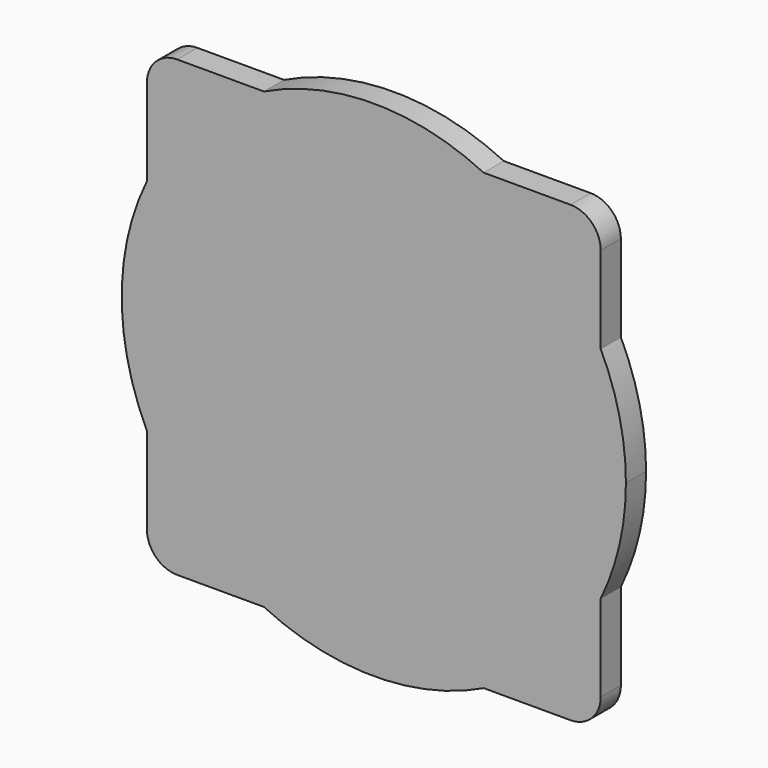
from build123d import *

# Parameters (mm, degrees)
F1_DEPTH = 10


with BuildPart() as f1:
    # F0 (on Front) → F1 (new body)
    with BuildSketch(Plane.XZ):
        with BuildLine():
            ThreePointArc((-90, 43.5889894354), (-70.7106781187, 70.7106781187), (-43.5889894354, 90))
            Line((-43.5889894354, 90), (-78, 90))
            ThreePointArc((-78, 90), (-86.4852813742, 86.4852813742), (-90, 78))
            Line((-90, 78), (-90, 43.5889894354))
        make_face()
        with BuildLine():
            Line((-43.5889894354, 90), (43.5889894354, 90))
            ThreePointArc((43.5889894354, 90), (0, 100), (-43.5889894354, 90))
        make_face()
        with BuildLine():
            ThreePointArc((43.5889894354, 90), (70.7106781187, 70.7106781187), (90, 43.5889894354))
            Line((90, 43.5889894354), (90, 78))
            ThreePointArc((90, 78), (86.4852813742, 86.4852813742), (78, 90))
            Line((78, 90), (43.5889894354, 90))
        make_face()
        with BuildLine():
            Line((90, -78), (90, -43.5889894354))
            ThreePointArc((90, -43.5889894354), (70.7106781187, -70.7106781187), (43.5889894354, -90))
            Line((43.5889894354, -90), (78, -90))
            ThreePointArc((78, -90), (86.4852813742, -86.4852813742), (90, -78))
        make_face()
        with BuildLine():
            Line((-78, -90), (-43.5889894354, -90))
            ThreePointArc((-43.5889894354, -90), (-70.7106781187, -70.7106781187), (-90, -43.5889894354))
            Line((-90, -43.5889894354), (-90, -78))
            ThreePointArc((-90, -78), (-86.4852813742, -86.4852813742), (-78, -90))
        make_face()
        with BuildLine():
            Line((90, -43.5889894354), (90, 43.5889894354))
            ThreePointArc((90, 43.5889894354), (70.7106781187, 70.7106781187), (43.5889894354, 90))
            Line((43.5889894354, 90), (-43.5889894354, 90))
            ThreePointArc((-43.5889894354, 90), (-70.7106781187, 70.7106781187), (-90, 43.5889894354))
            Line((-90, 43.5889894354), (-90, -43.5889894354))
            ThreePointArc((-90, -43.5889894354), (-70.7106781187, -70.7106781187), (-43.5889894354, -90))
            Line((-43.5889894354, -90), (43.5889894354, -90))
            ThreePointArc((43.5889894354, -90), (70.7106781187, -70.7106781187), (90, -43.5889894354))
        make_face()
        with BuildLine():
            Line((-90, -43.5889894354), (-90, 43.5889894354))
            ThreePointArc((-90, 43.5889894354), (-100, 0), (-90, -43.5889894354))
        make_face()
        with BuildLine():
            ThreePointArc((-43.5889894354, -90), (0, -100), (43.5889894354, -90))
            Line((43.5889894354, -90), (-43.5889894354, -90))
        make_face()
        with BuildLine():
            ThreePointArc((90, -43.5889894354), (97.4679434481, -22.360679775), (100, 0))
            ThreePointArc((100, 0), (97.4679434481, 22.360679775), (90, 43.5889894354))
            Line((90, 43.5889894354), (90, -43.5889894354))
        make_face()
    extrude(amount=F1_DEPTH)


solid = f1.part
